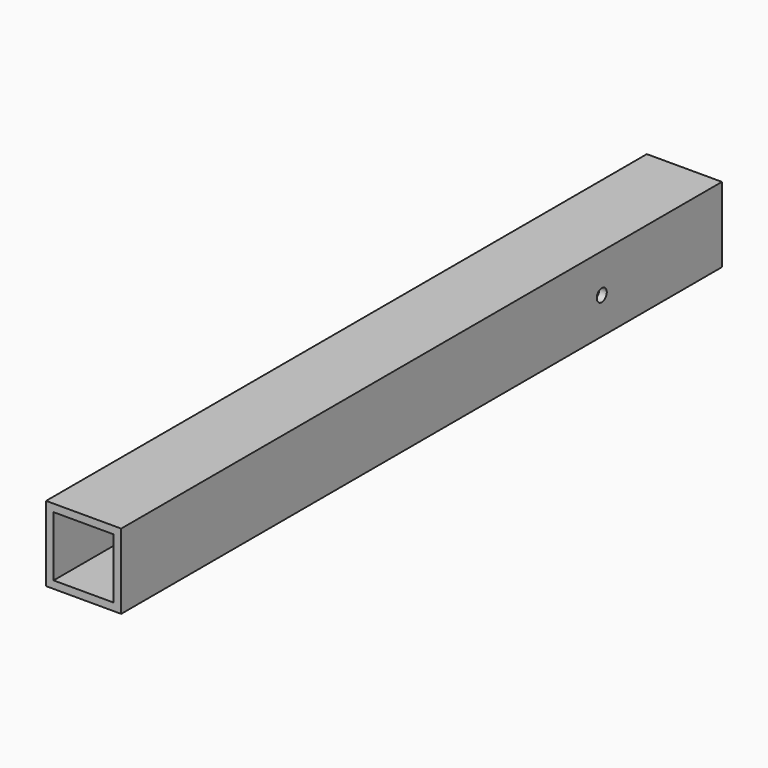
from build123d import *

# Parameters (mm, degrees)
F0_W     = 30
F0_H     = 30
F1_DEPTH = 300
F2_W     = 24
F2_H     = 24
F3_DEPTH = 300.001
F4_R     = 2.5
F5_DEPTH = 30.001


with BuildPart() as f1:
    # F0 (on Front) → F1 (new body)
    with BuildSketch(Plane.XZ):
        with Locations((15, 15)):
            Rectangle(F0_W, F0_H)
    extrude(amount=F1_DEPTH)

    # F2 (on face) → F3 (cut, through all)
    with BuildSketch(Plane.XZ.offset(300)):
        with Locations((15, 15)):
            Rectangle(F2_W, F2_H)
    extrude(amount=-F3_DEPTH, mode=Mode.SUBTRACT)

    # F4 (on face) → F5 (cut, through all)
    with BuildSketch(Plane.YZ.offset(30)):
        with Locations((-60, 14.536702)):
            Circle(F4_R)
    extrude(amount=-F5_DEPTH, mode=Mode.SUBTRACT)


solid = f1.part
